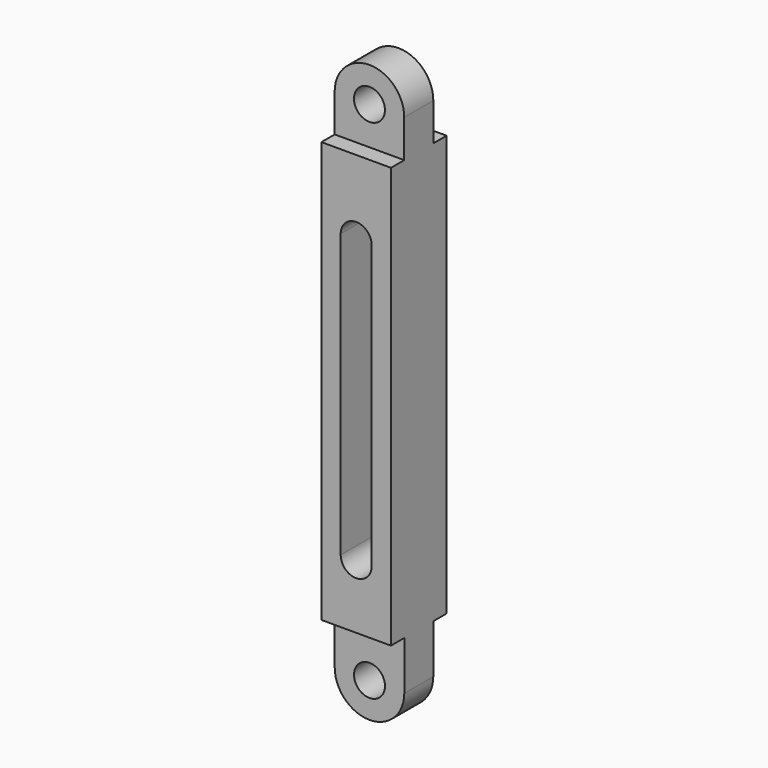
from build123d import *

# Parameters (mm, degrees)
F0_R     = 1.225
F1_DEPTH = 2.75
F2_DEPTH = 25
F3_W     = 2.7319499059
F3_H     = 6.5613500774
F3_W_2   = 2.5918500032
F3_W_3   = 2.8168536527
F3_H_2   = 7.1630705833
F3_W_4   = 2.5843745833
F4_DEPTH = 5


with BuildPart() as f1:
    # F0 (on Front) → F1 (new body, symmetric)
    with BuildSketch(Plane.XZ):
        with BuildLine():
            ThreePointArc((-2.75, -20.05), (0, -22.8), (2.75, -20.05))
            Line((2.75, -20.05), (2.75, 20.05))
            ThreePointArc((2.75, 20.05), (0, 22.8), (-2.75, 20.05))
            Line((-2.75, 20.05), (-2.75, -20.05))
        make_face()
        with Locations((0, -20.05)):
            Circle(F0_R, mode=Mode.SUBTRACT)
        with BuildLine():
            Line((-1.225, -11.175), (-1.225, 11.175))
            ThreePointArc((-1.225, 11.175), (0, 12.4), (1.225, 11.175))
            Line((1.225, 11.175), (1.225, -11.175))
            ThreePointArc((1.225, -11.175), (0, -12.4), (-1.225, -11.175))
        make_face(mode=Mode.SUBTRACT)
        with Locations((0, 20.05)):
            Circle(F0_R, mode=Mode.SUBTRACT)
    extrude(amount=F1_DEPTH, both=True)

    # F0 (on Front) → F2 (cut)
    with BuildSketch(Plane.XZ):
        with Locations((0, 20.05)):
            Circle(F0_R)
        with BuildLine():
            ThreePointArc((1.225, 11.175), (0, 12.4), (-1.225, 11.175))
            Line((-1.225, 11.175), (-1.225, -11.175))
            ThreePointArc((-1.225, -11.175), (0, -12.4), (1.225, -11.175))
            Line((1.225, -11.175), (1.225, 11.175))
        make_face()
        with Locations((0, -20.05)):
            Circle(F0_R)
    extrude(amount=-F2_DEPTH, mode=Mode.SUBTRACT)

    # F3 (on Right) → F4 (cut, symmetric)
    with BuildSketch(Plane.YZ):
        with Locations((-2.8040870675, 20.3422307968)):
            Rectangle(F3_W, F3_H)
        with Locations((2.7298625791, 20.3422307968)):
            Rectangle(F3_W_2, F3_H)
        with Locations((-2.8399268263, -19.7806989431)):
            Rectangle(F3_W_3, F3_H_2)
        with Locations((2.7236872916, -19.7806989431)):
            Rectangle(F3_W_4, F3_H_2)
    extrude(amount=F4_DEPTH, both=True, mode=Mode.SUBTRACT)


solid = f1.part
